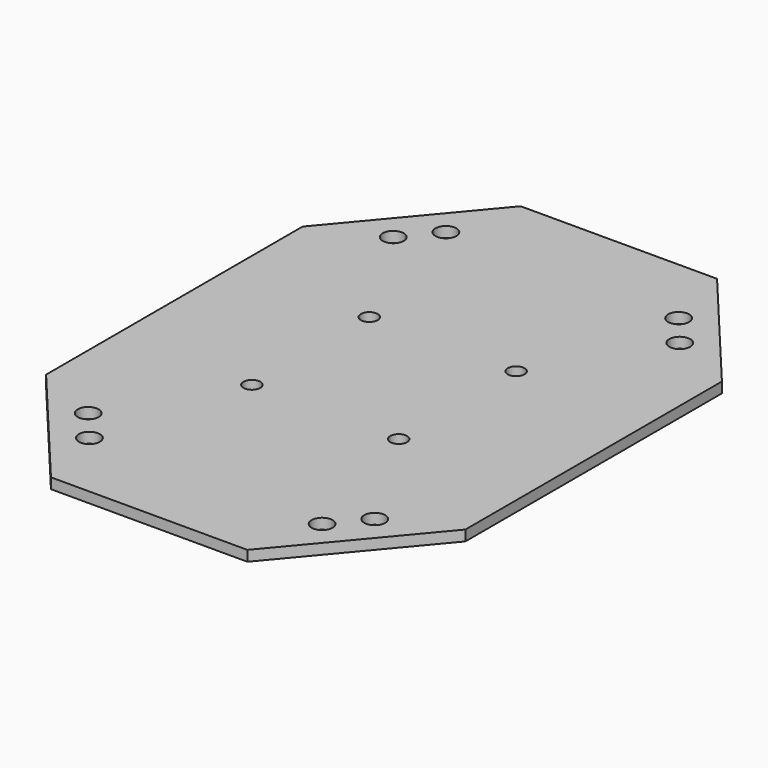
from build123d import *

# Parameters (mm, degrees)
F1_DEPTH = 3.175
F2_R     = 3.175
F3_DEPTH = 25.4
F4_R     = 2.54
F5_DEPTH = 3.176


with BuildPart() as f1:
    # F0 (on Top) → F1 (new body)
    with BuildSketch(Plane.XY):
        Polygon((29.745836, 88.9), (-29.745836, 88.9), (-63.5, 48.554318), (-63.5, -48.554318), (-29.745836, -88.9), (29.745836, -88.9), (63.5, -48.554318), (63.5, 48.554318), align=None)
    extrude(amount=F1_DEPTH)

    # F2 (on face) → F3 (cut)
    with BuildSketch(Plane.XY.offset(3.175)):
        with Locations((-43.392069, 57.744911)):
            Circle(F2_R)
        with Locations((-35.242826, 67.48554)):
            Circle(F2_R)
        with Locations((35.242824, 67.485542)):
            Circle(F2_R)
        with Locations((43.392067, 57.744913)):
            Circle(F2_R)
        with Locations((43.392069, -57.744911)):
            Circle(F2_R)
        with Locations((35.242826, -67.48554)):
            Circle(F2_R)
        with Locations((-35.242826, -67.48554)):
            Circle(F2_R)
        with Locations((-43.392069, -57.744911)):
            Circle(F2_R)
    extrude(amount=-F3_DEPTH, mode=Mode.SUBTRACT)

    # F4 (on face) → F5 (cut, through all)
    with BuildSketch(Plane.XY.offset(3.175)):
        with Locations((-22.225, 22.225)):
            Circle(F4_R)
        with Locations((22.225, 22.225)):
            Circle(F4_R)
        with Locations((-22.225, -22.225)):
            Circle(F4_R)
        with Locations((22.225, -22.225)):
            Circle(F4_R)
    extrude(amount=-F5_DEPTH, mode=Mode.SUBTRACT)


solid = f1.part
